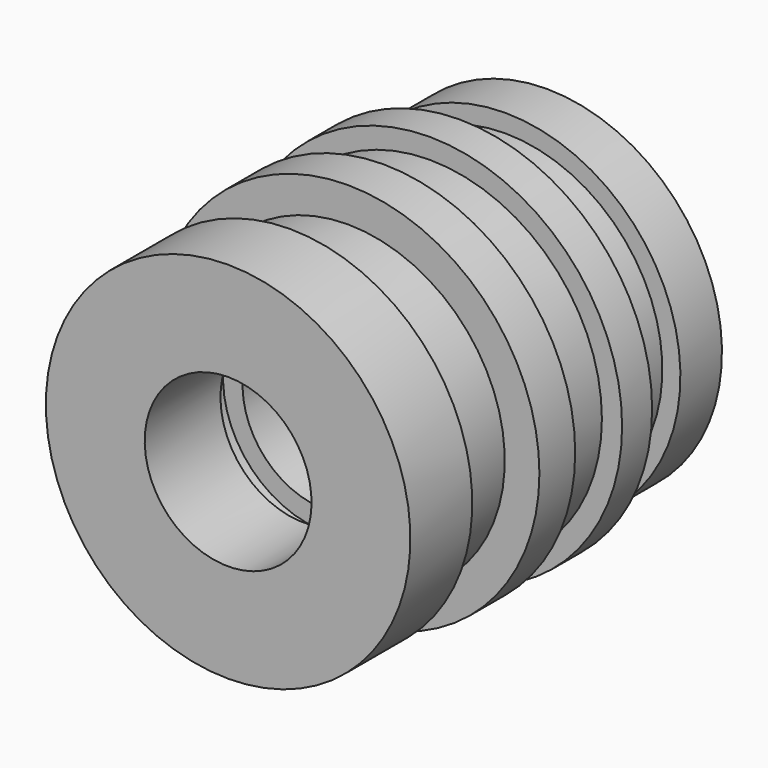
from build123d import *


with BuildPart() as f1:
    # F0 (on Right) → F1 (revolve)
    with BuildSketch(Plane.YZ):
        Polygon((0, 48.625026), (0, 22.252288), (25.260622, 22.252288), (25.260622, 27.257333), (32.383185, 27.257333), (32.383185, 22.059785), (106.303848, 22.059785), (106.303848, 46.700008), (92.443727, 46.700008), (92.443727, 41.887466), (77.236094, 41.887466), (77.236094, 51.32005), (67.226, 51.32005), (67.226, 45.929998), (51.825862, 45.929998), (51.825862, 51.127549), (39.890755, 51.127549), (39.890755, 41.887466), (20.64058, 41.887466), (20.64058, 48.625026), align=None)
    revolve(axis=Axis((0, 56.713209, 0), (0, 1, 0)))


solid = f1.part
